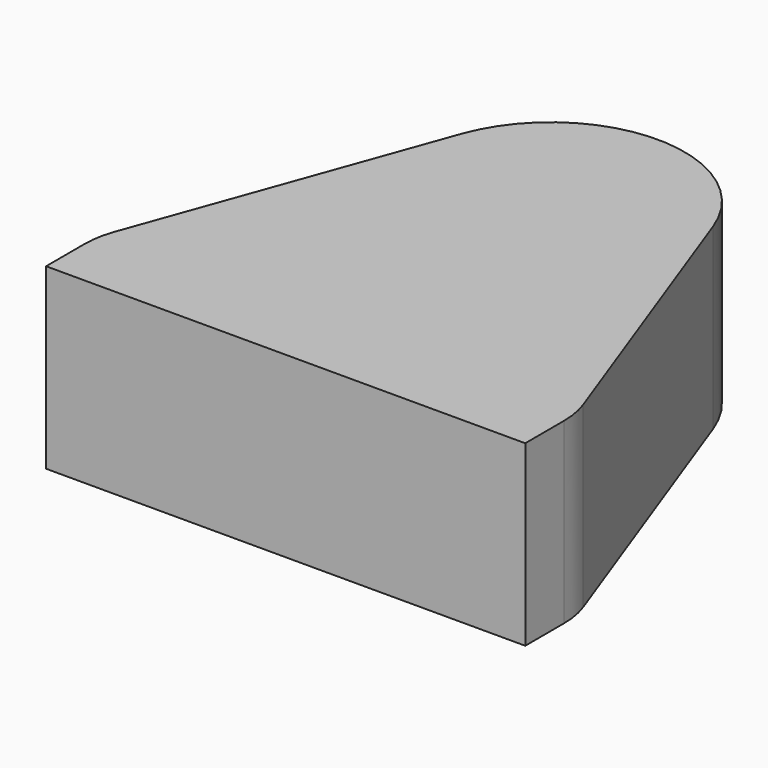
from build123d import *

# Parameters (mm, degrees)
F1_DEPTH = 25.4
F2_W     = 233.787931
F2_H     = 188.866646
F3_DEPTH = 91.948


with BuildPart() as f1:
    # F0 (on Top) → F1 (new body)
    with BuildSketch(Plane.XY):
        with BuildLine():
            Line((33.423868, -35.999869), (17.894589, 6.533465))
            ThreePointArc((17.894589, 6.533465), (-0.029676, 19.049977), (-17.914858, 6.477681))
            Line((-17.914858, 6.477681), (-33.311545, -36.10383))
            ThreePointArc((-33.311545, -36.10383), (-33.879389, -38.239899), (-34.06829, -40.442068))
            Line((-34.06829, -40.442068), (-33.823372, -197.661708))
            Line((-33.823372, -197.661708), (34.439045, -197.555368))
            Line((34.439045, -197.555368), (34.194127, -40.335729))
            ThreePointArc((34.194127, -40.335729), (33.998365, -38.134158), (33.423868, -35.999869))
        make_face()
    extrude(amount=F1_DEPTH)

    # F2 (on face) → F3 (cut)
    with BuildSketch(Plane(origin=(0, 0, 0), x_dir=(1, 0, 0), z_dir=(0, 0, -1))):
        with Locations((-8.57548, 141.723752)):
            Rectangle(F2_W, F2_H)
    extrude(amount=-F3_DEPTH, mode=Mode.SUBTRACT)


solid = f1.part
